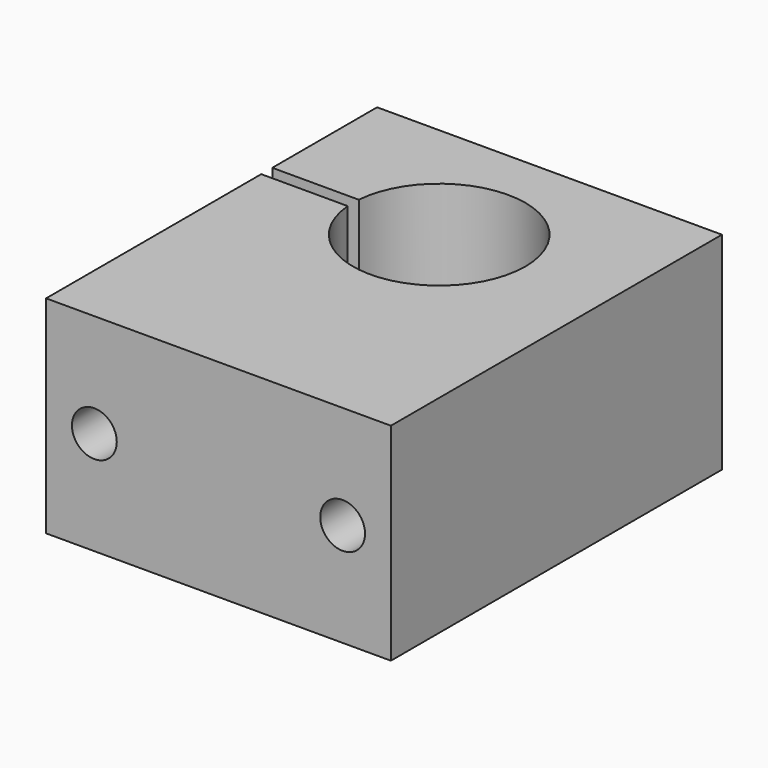
from build123d import *

# Parameters (mm, degrees)
F1_DEPTH = 30
F2_R     = 3.25
F3_DEPTH = 60.001


with BuildPart() as f1:
    # F0 (on Top) → F1 (new body)
    with BuildSketch(Plane.XY):
        with BuildLine():
            Line((-25, -1), (-25, -40))
            Line((-25, -40), (25, -40))
            Line((25, -40), (25, 20))
            Line((25, 20), (-25, 20))
            Line((-25, 20), (-25, 1))
            Line((-25, 1), (-12.459936, 1))
            ThreePointArc((-12.459936, 1), (-0.280101, 12.496861), (12.402618, 1.557262))
            ThreePointArc((12.402618, 1.557262), (1.278952, -12.434399), (-12.459936, -1))
            Line((-12.459936, -1), (-25, -1))
        make_face()
    extrude(amount=F1_DEPTH)

    # F2 (on face) → F3 (cut, through all)
    with BuildSketch(Plane.XZ.offset(40)):
        with Locations((-18, 15)):
            Circle(F2_R)
        with Locations((18, 15)):
            Circle(F2_R)
    extrude(amount=-F3_DEPTH, mode=Mode.SUBTRACT)


solid = f1.part
